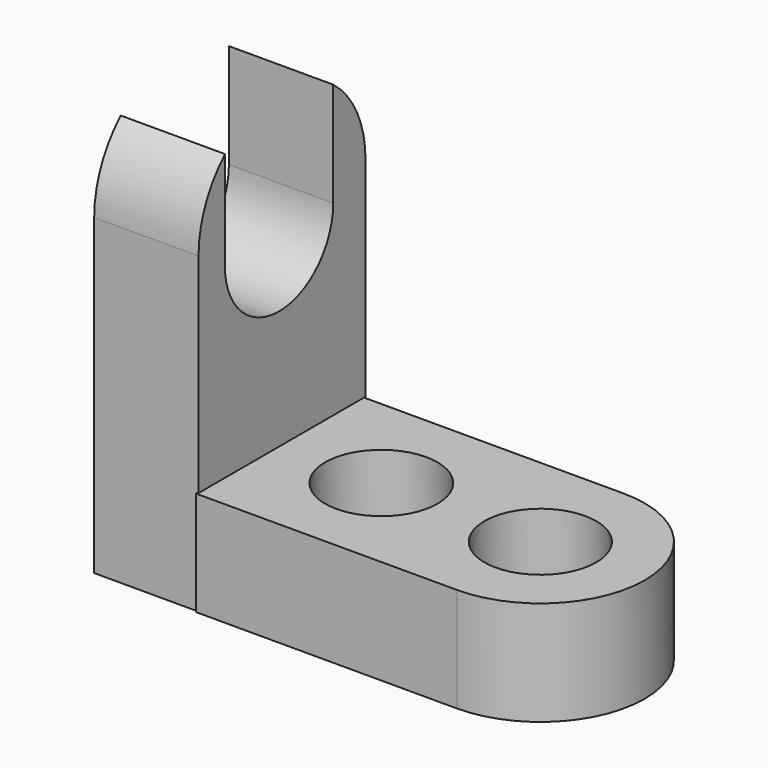
from build123d import *

# Parameters (mm, degrees)
F0_W     = 25.4
F0_H     = 38.1
F1_DEPTH = 12.7
F2_W     = 31.75
F2_H     = 25.4
F3_DEPTH = 12.7
F5_DEPTH = 12.7
F6_R     = 6.832964
F6_R_2   = 6.803231
F7_DEPTH = 12.7


with BuildPart() as f1:
    # F0 (on Right) → F1 (new body)
    with BuildSketch(Plane.YZ):
        with Locations((-38.928264, 19.05)):
            Rectangle(F0_W, F0_H)
        with BuildLine():
            ThreePointArc((-26.228264, 38.1), (-38.928264, 50.8), (-51.628264, 38.1))
            Line((-51.628264, 38.1), (-26.228264, 38.1))
        make_face()
    extrude(amount=F1_DEPTH)

    # F2 (on Top) → F3 (join)
    with BuildSketch(Plane.XY):
        with BuildLine():
            ThreePointArc((44.319397, -51.85383), (57.019397, -39.15383), (44.319397, -26.45383))
            Line((44.319397, -26.45383), (44.319397, -51.85383))
        make_face()
        with Locations((28.444397, -39.15383)):
            Rectangle(F2_W, F2_H)
    extrude(amount=F3_DEPTH)

    # F4 (on face) → F5 (cut)
    with BuildSketch(Plane.YZ.offset(12.7)):
        with BuildLine():
            ThreePointArc((-31.137236, 48.129451), (-39.756961, 56.367), (-47.595407, 47.382814))
            ThreePointArc((-47.595407, 47.382814), (-39.503817, 50.786951), (-31.137236, 48.129451))
        make_face()
        with BuildLine():
            ThreePointArc((-31.137236, 48.129451), (-39.503817, 50.786951), (-47.595407, 47.382814))
            Line((-47.595407, 47.382814), (-47.595407, 34.682814))
            ThreePointArc((-47.595407, 34.682814), (-39.009555, 27.191903), (-31.137236, 35.429451))
            Line((-31.137236, 35.429451), (-31.137236, 48.129451))
        make_face()
    extrude(amount=-F5_DEPTH, mode=Mode.SUBTRACT)

    # F6 (on face) → F7 (cut)
    with BuildSketch(Plane.XY.offset(12.7)):
        with Locations((24.967661, -39.15383)):
            Circle(F6_R)
        with Locations((44.319397, -39.15383)):
            Circle(F6_R_2)
    extrude(amount=-F7_DEPTH, mode=Mode.SUBTRACT)


solid = f1.part
